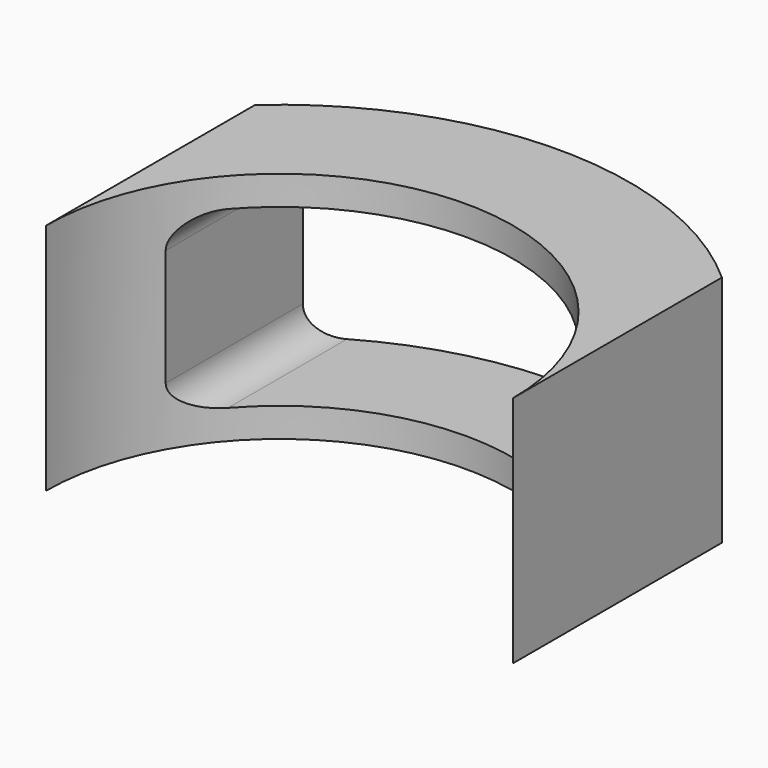
from build123d import *

# Parameters (mm, degrees)
F1_DEPTH      = 4
F1_DEPTH_BACK = 4
F2_W          = 14
F2_H          = 6
F3_DEPTH      = 25
F4_R          = 1


with BuildPart() as f1:
    # F0 (on Top) → F1 (new body, two sides)
    with BuildSketch(Plane.XY) as f1_sk:
        with BuildLine():
            Line((8, 0), (8, 8.944272))
            ThreePointArc((8, 8.944272), (0, 12), (-8, 8.944272))
            Line((-8, 8.944272), (-8, 0))
            ThreePointArc((-8, 0), (0, 8), (8, 0))
        make_face()
    extrude(amount=F1_DEPTH)
    extrude(f1_sk.sketch, amount=-F1_DEPTH_BACK)

    # F2 (on Front) → F3 (cut)
    with BuildSketch(Plane.XZ):
        Rectangle(F2_W, F2_H)
    extrude(amount=-F3_DEPTH, mode=Mode.SUBTRACT)

    # F4
    f4_edges = [f1.edges().sort_by_distance(p)[0] for p in [
        (-7, 6.809889, 3),
        (-7, 6.809889, -3),
        (7, 6.809889, -3),
        (7, 6.809889, 3),
    ]]
    fillet(f4_edges, radius=F4_R)


solid = f1.part
